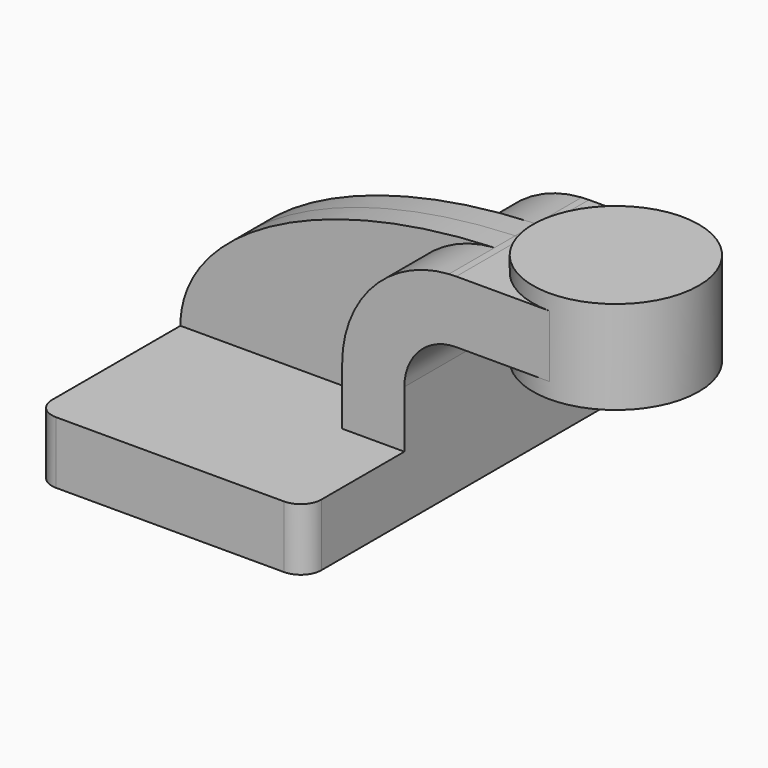
from build123d import *

# Parameters (mm, degrees)
F1_DEPTH = 63.5
F2_DEPTH = 25.4
F3_DEPTH = 7.9375
F5_R     = 6.35


with BuildPart() as f1:
    # F0 (on Front) → F1 (new body, symmetric)
    with BuildSketch(Plane.XZ):
        Polygon((41.275, -9.525), (41.275, 9.525), (22.225, 9.525), (-41.275, 9.525), (-41.275, -9.525), align=None)
    extrude(amount=F1_DEPTH, both=True)

    # F0 (on Front) → F2 (join, symmetric)
    with BuildSketch(Plane.XZ):
        with BuildLine():
            Line((22.225, 9.525), (41.275, 9.525))
            Line((41.275, 9.525), (41.275, 27.0002))
            ThreePointArc((41.275, 27.0002), (45.92468, 38.22552), (57.15, 42.8752))
            Line((57.15, 42.8752), (60.325, 42.8752))
            Line((60.325, 42.8752), (60.325, 61.9252))
            Line((60.325, 61.9252), (57.15, 61.9252))
            add(Edge.make_bspline(
                [(57.15, 61.9252), (56.406917, 61.90542), (55.666126, 61.881815), (54.927698, 61.854425)],
                knots=[0, 0, 0, 0, 1.489577, 1.489577, 1.489577, 1.489577], degree=3))
            ThreePointArc((54.927698, 61.854425), (31.680709, 50.897289), (22.225, 27.0002))
            Line((22.225, 27.0002), (22.225, 9.525))
        make_face()
        Polygon((60.325, 61.9252), (60.325, 42.8752), (78.02037, 42.8752), (85.725, 42.8752), (85.725, 61.9252), (78.02037, 61.9252), align=None)
    extrude(amount=F2_DEPTH, both=True)

    # F0 (on Front) → F3 (join, symmetric)
    with BuildSketch(Plane.XZ):
        with BuildLine():
            Line((-41.275, 9.525), (22.225, 9.525))
            Line((22.225, 9.525), (22.225, 27.0002))
            ThreePointArc((22.225, 27.0002), (31.680709, 50.897289), (54.927698, 61.854425))
            add(Edge.make_bspline(
                [(54.927698, 61.854425), (0.389985, 59.831469), (-41.257529, 37.158326), (-41.275, 9.525)],
                knots=[1.489577, 1.489577, 1.489577, 1.489577, 111.504536, 111.504536, 111.504536, 111.504536], degree=3))
        make_face()
    extrude(amount=F3_DEPTH, both=True)

    # F0 (on Front) → F4 (revolve)
    with BuildSketch(Plane.XZ):
        Polygon((85.725, 42.8752), (85.725, 38.1), (111.125, 38.1), (111.125, 66.675), (85.725, 66.675), (85.725, 61.9252), align=None)
    revolve(axis=Axis((85.725, 0, 52.3875), (0, 0, 1)))

    # F5
    f5_edges = [f1.edges().sort_by_distance(p)[0] for p in [
        (41.275, -63.5, 0),
        (-41.275, -63.5, 0),
        (-41.275, 63.5, 0),
        (41.275, 63.5, 0),
    ]]
    fillet(f5_edges, radius=F5_R)


solid = f1.part
